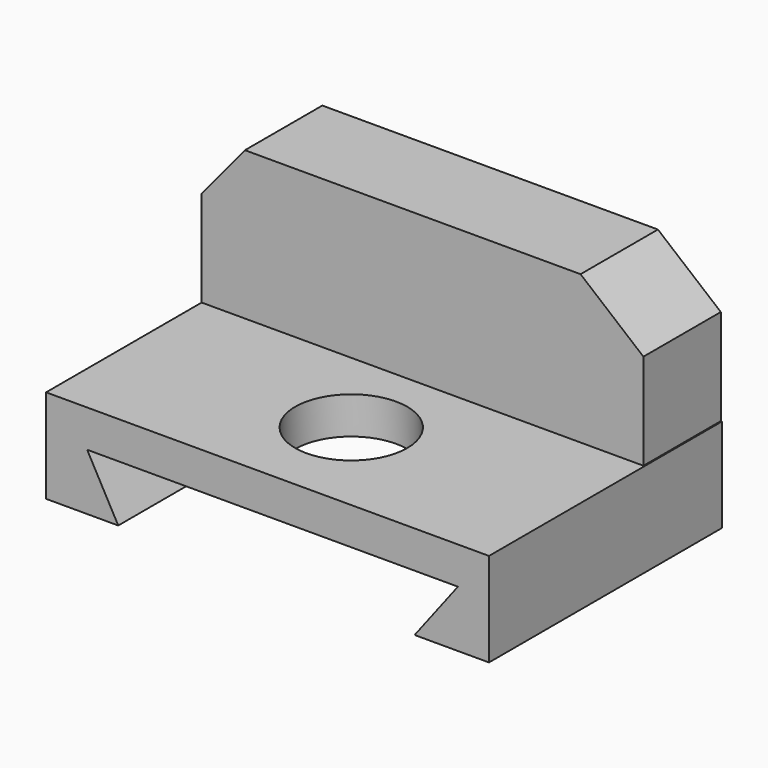
from build123d import *

# Parameters (mm, degrees)
F1_DEPTH = 76.454
F3_DEPTH = 25.4
F4_R     = 14.704348
F5_DEPTH = 25.4


with BuildPart() as f1:
    # F0 (on Front) → F1 (new body)
    with BuildSketch(Plane.XZ):
        Polygon((57.71213, 0), (-58.586556, 0), (-58.586556, -24.629673), (-39.640658, -24.629673), (-47.801968, -9.764426), (49.55082, -9.764426), (38.183279, -24.629673), (57.71213, -24.629673), align=None)
    extrude(amount=F1_DEPTH)

    # F2 (on Front) → F3 (join)
    with BuildSketch(Plane.XZ):
        Polygon((-58.586556, 25.212623), (-58.586556, 0), (57.420652, 0), (57.420652, 25.212623), (40.911183, 38.911968), (-47.219016, 38.911968), align=None)
    extrude(amount=F3_DEPTH)

    # F4 (on Top) → F5 (cut)
    with BuildSketch(Plane.XY):
        with Locations((0, -49.532082)):
            Circle(F4_R)
    extrude(amount=-F5_DEPTH, mode=Mode.SUBTRACT)


solid = f1.part
